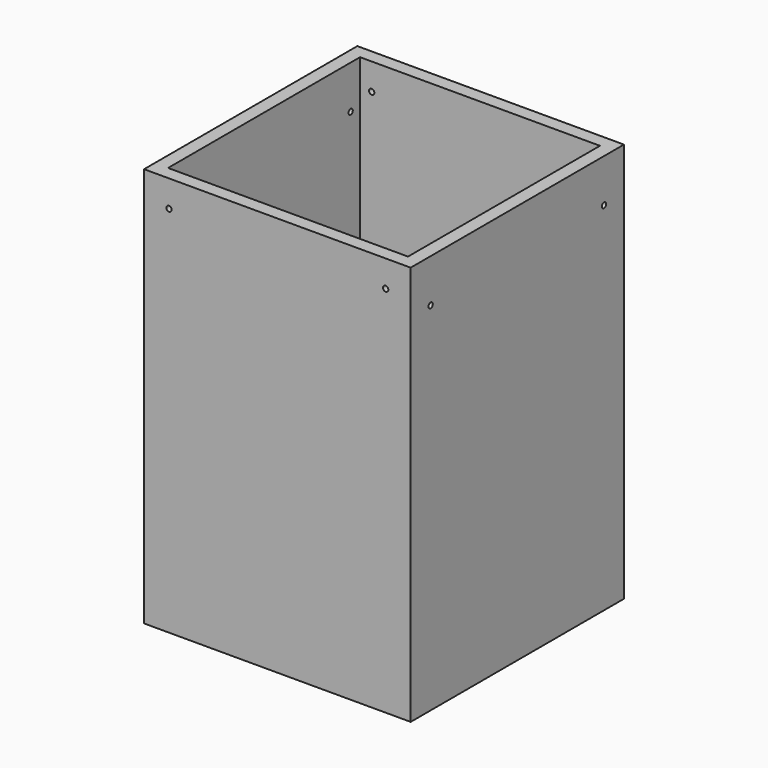
from build123d import *

# Parameters (mm, degrees)
F0_W     = 360
F0_H     = 360
F1_DEPTH = 600
F2_R     = 4
F3_DEPTH = 406
F4_R     = 4
F5_DEPTH = 467


with BuildPart() as f1:
    # F0 (on Top) → F1 (new body)
    with BuildSketch(Plane.XY):
        Polygon((0, 400), (0, 0), (20, 0), (400, 0), (400, 400), align=None)
        with Locations((200, 200)):
            Rectangle(F0_W, F0_H, mode=Mode.SUBTRACT)
    extrude(amount=F1_DEPTH)

    # F2 (on face) → F3 (cut)
    with BuildSketch(Plane.XZ):
        with Locations((37.5, 560)):
            Circle(F2_R)
        with BuildLine():
            ThreePointArc((366.5, 560), (362.5, 564), (358.5, 560))
            ThreePointArc((358.5, 560), (362.5, 556), (366.5, 560))
        make_face()
    extrude(amount=-F3_DEPTH, mode=Mode.SUBTRACT)

    # F4 (on face) → F5 (cut)
    with BuildSketch(Plane(origin=(0, 0, 0), x_dir=(0, -1, 0), z_dir=(-1, 0, 0))):
        with Locations((-362.5, 535)):
            Circle(F4_R)
        with BuildLine():
            ThreePointArc((-33.5, 535), (-37.5, 539), (-41.5, 535))
            ThreePointArc((-41.5, 535), (-37.5, 531), (-33.5, 535))
        make_face()
    extrude(amount=-F5_DEPTH, mode=Mode.SUBTRACT)


solid = f1.part
